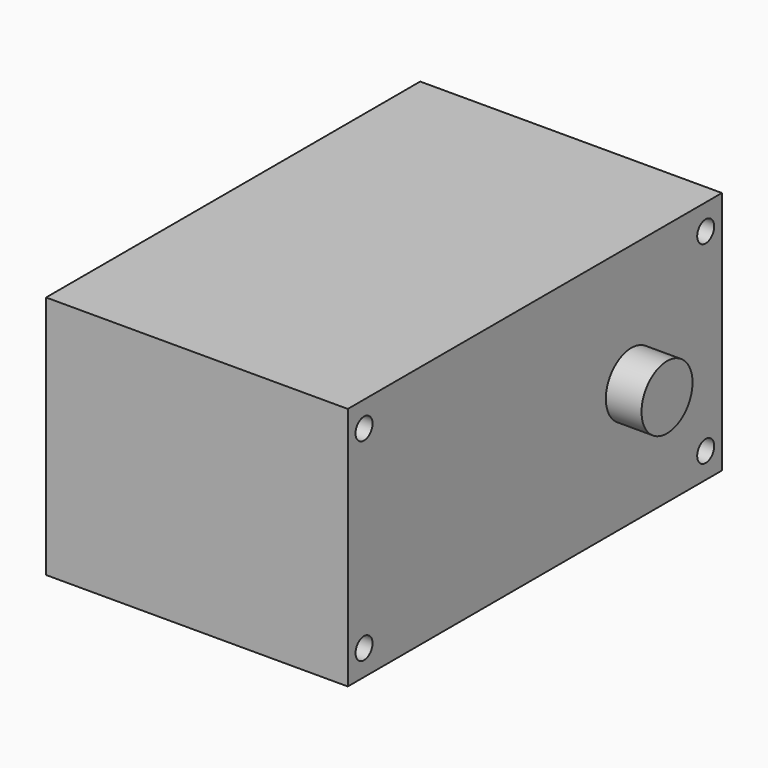
from build123d import *

# Parameters (mm, degrees)
SKETCH025_W  = 44.02
SKETCH025_H  = 23
SKETCH025_R  = 1
PAD023_DEPTH = 14.2
SKETCH026_R  = 3
PAD024_DEPTH = 3.36


with BuildPart() as part:
    # Sketch025 → Pad023 (new body, symmetric)
    with BuildSketch(Plane.YZ):
        Rectangle(SKETCH025_W, SKETCH025_H)
        with Locations((-20.1, -9.1)):
            Circle(SKETCH025_R, mode=Mode.SUBTRACT)
        with Locations((20.1, -9.1)):
            Circle(SKETCH025_R, mode=Mode.SUBTRACT)
        with Locations((-20.1, 9.1)):
            Circle(SKETCH025_R, mode=Mode.SUBTRACT)
        with Locations((20.1, 9.1)):
            Circle(SKETCH025_R, mode=Mode.SUBTRACT)
    extrude(amount=PAD023_DEPTH, both=True)

    # Sketch026 (on Face10 of Pad023) → Pad024 (join)
    with BuildSketch(Plane.YZ.offset(14.2)):
        with Locations((11.35, 0)):
            Circle(SKETCH026_R)
    pad024 = extrude(amount=PAD024_DEPTH)

    # Mirrored: Pad024 across YZ
    add(pad024.mirror(Plane.YZ))


solid = part.part
